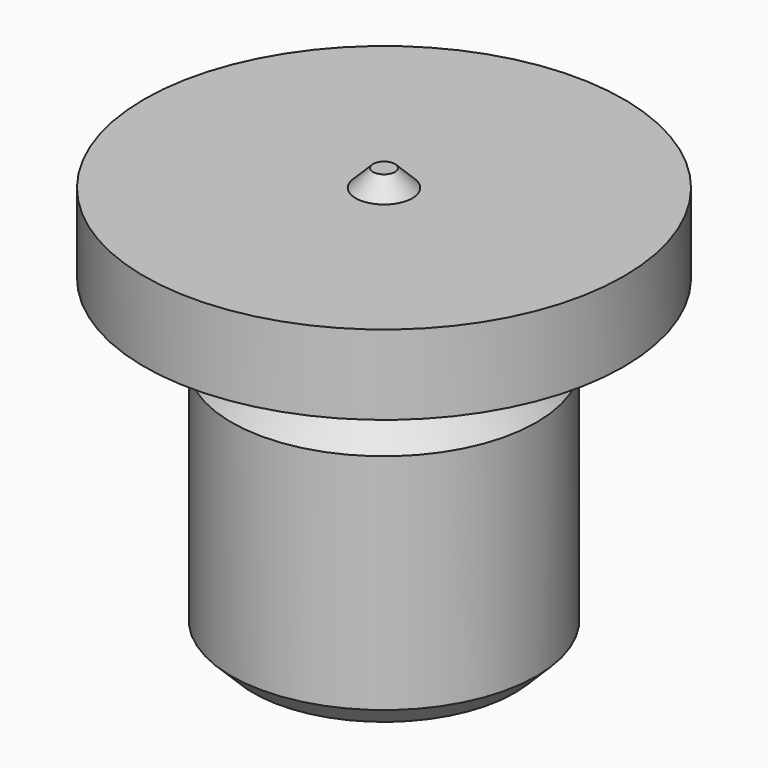
from build123d import *

# Parameters (mm, degrees)
F0_R     = 3
F1_DEPTH = 38.5
F0_R_2   = 14
F2_DEPTH = 24.5
F3_SIZE  = 2
F5_R     = 22
F5_R_2   = 6.35
F6_DEPTH = 7.3
F7_DEPTH = 3.1


with BuildPart() as f1:
    # F0 (on Top) → F1 (new body)
    with BuildSketch(Plane.XY):
        Circle(F0_R)
    extrude(amount=F1_DEPTH)

    # F0 (on Top) → F2 (join)
    with BuildSketch(Plane.XY):
        Circle(F0_R_2)
        Circle(F0_R, mode=Mode.SUBTRACT)
    extrude(amount=F2_DEPTH)

    # F3
    f3_edges = [f1.edges().sort_by_distance(p)[0] for p in [
        (-14, 0, 0),
        (-14, 0, 24.5),
        (-3, 0, 38.5),
    ]]
    chamfer(f3_edges, length=F3_SIZE)

    # F5 (on offset) → F6 (join)
    with BuildSketch(Plane.XY.offset(29.6)):
        Circle(F5_R)
        Circle(F5_R_2, mode=Mode.SUBTRACT)
        Circle(F5_R_2)
    extrude(amount=F6_DEPTH)

    # F5 (on offset) → F7 (join)
    with BuildSketch(Plane.XY.offset(29.6)):
        Circle(F5_R_2)
    extrude(amount=-F7_DEPTH)


solid = f1.part
